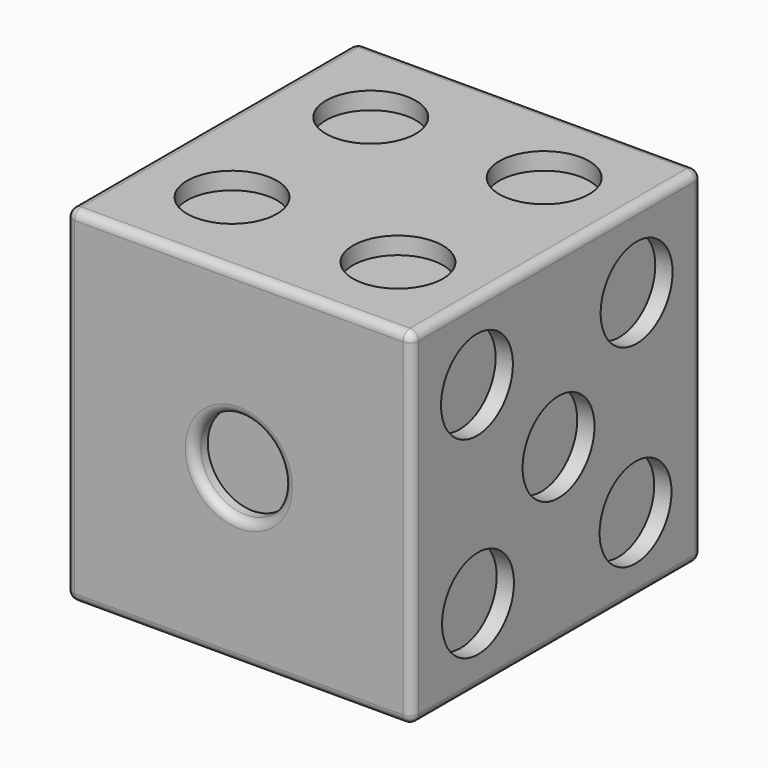
from build123d import *

# Parameters (mm, degrees)
F0_W      = 20
F0_H      = 20
F1_DEPTH  = 20
F2_W      = 20
F2_H      = 20
F2_R      = 2.6
F3_DEPTH  = 1
F4_R      = 2.6
F5_DEPTH  = 1
F6_R      = 2.6
F7_DEPTH  = 1
F9_R      = 2.6
F10_DEPTH = 1
F11_R     = 2.6
F12_DEPTH = 1
F14_R     = 2.6
F15_DEPTH = 1
F16_R     = 0.5


with BuildPart() as f1:
    # F0 (on Front) → F1 (new body)
    with BuildSketch(Plane.XZ):
        with Locations((10, 10)):
            Rectangle(F0_W, F0_H)
    extrude(amount=F1_DEPTH)

    # F2 (on face) → F3 (join)
    with BuildSketch(Plane.XZ.offset(20)):
        with Locations((10, 10)):
            Rectangle(F2_W, F2_H)
        with Locations((10, 10)):
            Circle(F2_R, mode=Mode.SUBTRACT)
    extrude(amount=F3_DEPTH)

    # F4 (on face) → F5 (cut)
    with BuildSketch(Plane(origin=(0, 0, 0), x_dir=(0, -1, 0), z_dir=(-1, 0, 0))):
        with Locations((6.5558182063, 13.2910121384)):
            Circle(F4_R)
        with Locations((14.9031878165, 6.3120640028)):
            Circle(F4_R)
    extrude(amount=-F5_DEPTH, mode=Mode.SUBTRACT)

    # F6 (on face) → F7 (cut)
    with BuildSketch(Plane.XY.offset(20)):
        with Locations((5.2196445889, -5.4806268184)):
            Circle(F6_R)
        with Locations((15.0386817887, -5.2093841219)):
            Circle(F6_R)
        with Locations((5.2196445889, -15.5193731816)):
            Circle(F6_R)
        with Locations((15.0386817887, -15.7906158781)):
            Circle(F6_R)
    extrude(amount=-F7_DEPTH, mode=Mode.SUBTRACT)

    # F9 (on face) → F10 (cut)
    with BuildSketch(Plane(origin=(0, 0, 0), x_dir=(1, 0, 0), z_dir=(0, 0, -1))):
        with Locations((4.7041235123, 4.8818840855)):
            Circle(F9_R)
        with Locations((10.0668108718, 10.4472179903)):
            Circle(F9_R)
        with Locations((15.2967504263, 15.8747877835)):
            Circle(F9_R)
    extrude(amount=-F10_DEPTH, mode=Mode.SUBTRACT)

    # F11 (on face) → F12 (cut)
    with BuildSketch(Plane(origin=(0, 0, 0), x_dir=(-1, 0, 0), z_dir=(0, 1, 0))):
        with Locations((-15.4185416177, 3.2414922025)):
            Circle(F11_R)
        with Locations((-15.7072935253, 10.5565581471)):
            Circle(F11_R)
        with Locations((-15.5147919431, 16.7166125029)):
            Circle(F11_R)
        with Locations((-4.4852080569, 16.7166125029)):
            Circle(F11_R)
        with Locations((-4.2927064747, 10.5565581471)):
            Circle(F11_R)
        with Locations((-4.5814583823, 3.2414922025)):
            Circle(F11_R)
    extrude(amount=-F12_DEPTH, mode=Mode.SUBTRACT)

    # F14 (on face) → F15 (cut)
    with BuildSketch(Plane.YZ.offset(20)):
        with Locations((-16.1984862848, 4.3908170937)):
            Circle(F14_R)
        with Locations((-10.3718864697, 9.9916504576)):
            Circle(F14_R)
        with Locations((-16.2744057865, 15.5611082293)):
            Circle(F14_R)
        with Locations((-4.7255942135, 15.5611082293)):
            Circle(F14_R)
        with Locations((-4.8015137152, 4.3908170937)):
            Circle(F14_R)
    extrude(amount=-F15_DEPTH, mode=Mode.SUBTRACT)

    # F16
    f16_edges = [f1.edges().sort_by_distance(p)[0] for p in [
        (10, -21, 0),
        (20, -21, 10),
        (20, -10.5, 0),
        (20, 0, 10),
        (10, 0, 0),
        (20, -10.5, 20),
        (7.4, -21, 10),
        (10, -21, 20),
        (0, -10.5, 20),
        (10, 0, 20),
        (0, 0, 10),
        (0, -21, 10),
        (0, -10.5, 0),
    ]]
    fillet(f16_edges, radius=F16_R)


solid = f1.part
